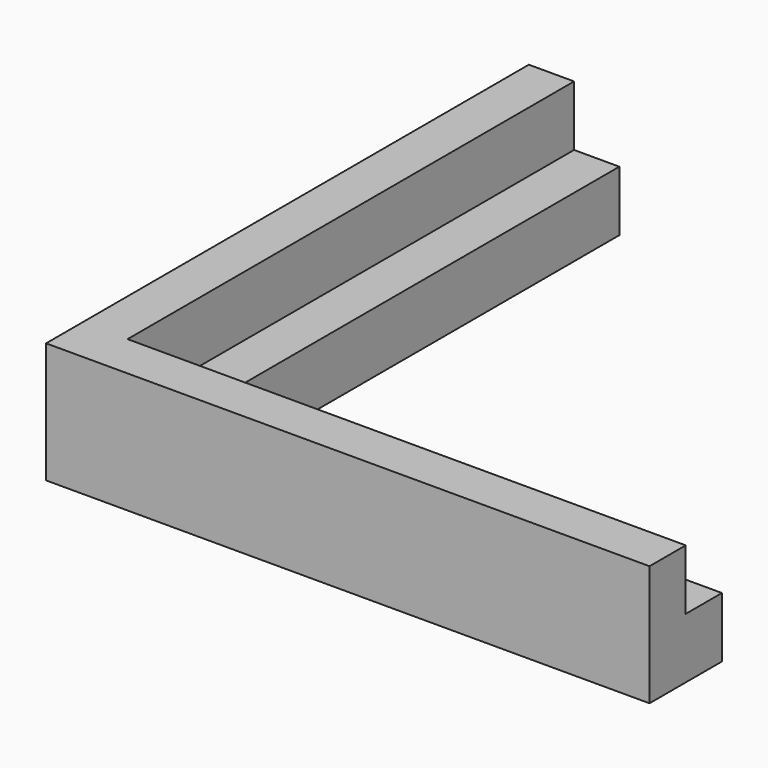
from build123d import *

# Parameters (mm, degrees)
F2_DEPTH = 4
F4_DEPTH = 4
F5_W     = 129.927155
F5_H     = 119.906087
F5_W_2   = 40
F5_H_2   = 40
F6_DEPTH = 8.001


with BuildPart() as f2:
    # F1 (on Top) → F2 (new body)
    with BuildSketch(Plane.XY):
        Polygon((40.684865, -47.513555), (-21.115135, -47.513555), (-21.115135, 14.286445), (-40.215135, 33.386445), (-40.215135, -66.613555), (59.784865, -66.613555), align=None)
    extrude(amount=F2_DEPTH)

    # F3 (on face) → F4 (join)
    with BuildSketch(Plane.XY.offset(4)):
        Polygon((-24.115135, -3.086945), (-40.215135, -3.086945), (-40.215135, -66.613555), (15.733283, -66.613555), (15.733283, -50.513555), (-24.115135, -50.513555), align=None)
    extrude(amount=F4_DEPTH)

    # F5 (on Top) → F6 (cut, through all)
    with BuildSketch(Plane.XY):
        with Locations((8.65676, -20.336797)):
            Rectangle(F5_W, F5_H)
        with Locations((-7.115135, -33.513555)):
            Rectangle(F5_W_2, F5_H_2, mode=Mode.SUBTRACT)
    extrude(amount=F6_DEPTH, mode=Mode.SUBTRACT)


solid = f2.part
